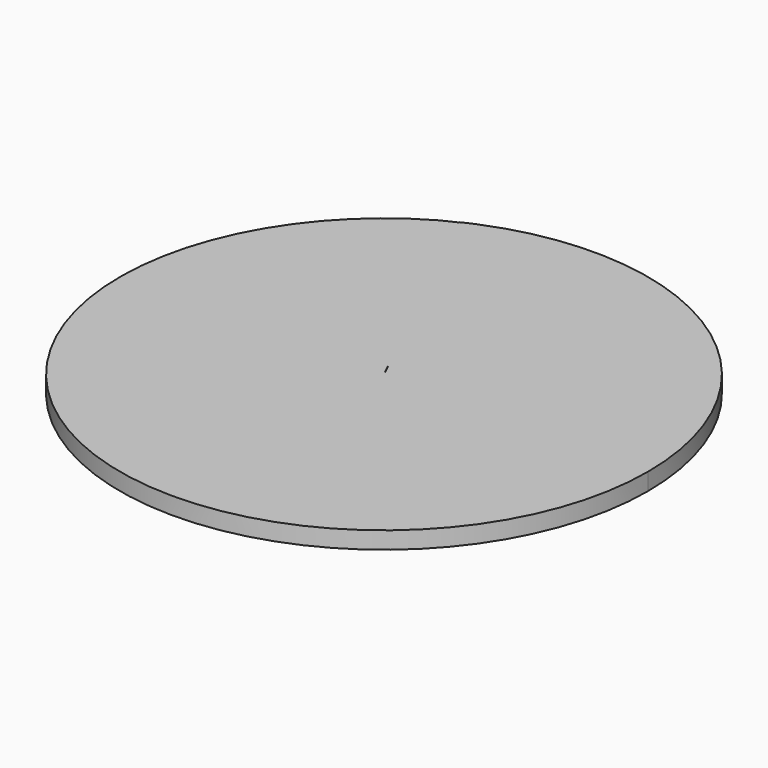
from build123d import *

# Parameters (mm, degrees)
F1_DEPTH = 1.5875
F2_DEPTH = 1.5875
F3_DEPTH = 1.5875


with BuildPart() as f1:
    # F0 (on Top) → F1 (new body)
    with BuildSketch(Plane.XY):
        with BuildLine():
            ThreePointArc((-1.994726, 4.142371), (-10.83638, 1.048738), (-20.14474, 0))
            ThreePointArc((-20.14474, 0), (8.739997, -18.150014), (12.560869, 15.749131))
            ThreePointArc((12.560869, 15.749131), (5.938271, 9.126868), (-1.991606, 4.143874))
            Line((-1.991606, 4.143874), (0, 0))
            Line((0, 0), (-1.994726, 4.142371))
        make_face()
    extrude(amount=F1_DEPTH)



with BuildPart() as f2:
    # F0 (on Top) → F2 (new body)
    with BuildSketch(Plane.XY):
        with BuildLine():
            Line((-11.720869, 21.455461), (-11.967893, 21.336738))
            ThreePointArc((-11.967893, 21.336738), (-12.363341, -21.11006), (24.463991, 0))
            ThreePointArc((24.463991, 0), (13.556989, 20.364059), (-9.438483, 22.569933))
            ThreePointArc((-9.438483, 22.569933), (-9.339647, 22.295321), (-9.306112, 22.005397))
            ThreePointArc((-9.306112, 22.005397), (-10.294103, 20.767103), (-11.720869, 21.455461))
        make_face()
        with BuildLine():
            ThreePointArc((12.560869, 15.749131), (8.739997, -18.150014), (-20.14474, 0))
            ThreePointArc((-20.14474, 0), (-10.83638, 1.048738), (-1.994726, 4.142371))
            ThreePointArc((-1.994726, 4.142371), (-1.993166, 4.143122), (-1.991606, 4.143874))
            ThreePointArc((-1.991606, 4.143874), (5.938271, 9.126868), (12.560869, 15.749131))
        make_face(mode=Mode.SUBTRACT)
    extrude(amount=F2_DEPTH)


with BuildPart() as f1_1:
    add(f1.part)

    add(f2.part)  # F3 merges F2
    # F0 (on Top) → F3 (join)
    with BuildSketch(Plane.XY):
        with BuildLine():
            Line((-11.720869, 21.455461), (-11.967893, 21.336738))
            ThreePointArc((-11.967893, 21.336738), (-12.363341, -21.11006), (24.463991, 0))
            ThreePointArc((24.463991, 0), (13.556989, 20.364059), (-9.438483, 22.569933))
            ThreePointArc((-9.438483, 22.569933), (-9.339647, 22.295321), (-9.306112, 22.005397))
            ThreePointArc((-9.306112, 22.005397), (-10.294103, 20.767103), (-11.720869, 21.455461))
        make_face()
        with BuildLine():
            ThreePointArc((12.560869, 15.749131), (8.739997, -18.150014), (-20.14474, 0))
            ThreePointArc((-20.14474, 0), (-10.83638, 1.048738), (-1.994726, 4.142371))
            ThreePointArc((-1.994726, 4.142371), (-1.993166, 4.143122), (-1.991606, 4.143874))
            ThreePointArc((-1.991606, 4.143874), (5.938271, 9.126868), (12.560869, 15.749131))
        make_face(mode=Mode.SUBTRACT)
        with BuildLine():
            ThreePointArc((-1.994726, 4.142371), (-10.83638, 1.048738), (-20.14474, 0))
            ThreePointArc((-20.14474, 0), (8.739997, -18.150014), (12.560869, 15.749131))
            ThreePointArc((12.560869, 15.749131), (5.938271, 9.126868), (-1.991606, 4.143874))
            Line((-1.991606, 4.143874), (0, 0))
            Line((0, 0), (-1.994726, 4.142371))
        make_face()
        with BuildLine():
            Line((-10.592788, 21.997633), (-11.720869, 21.455461))
            ThreePointArc((-11.720869, 21.455461), (-10.294103, 20.767103), (-9.306112, 22.005397))
            ThreePointArc((-9.306112, 22.005397), (-9.339647, 22.295321), (-9.438483, 22.569933))
            ThreePointArc((-9.438483, 22.569933), (-10.029695, 22.313495), (-10.613948, 22.041573))
            Line((-10.613948, 22.041573), (-10.592788, 21.997633))
        make_face()
    extrude(amount=F3_DEPTH)


solid = f1_1.part
